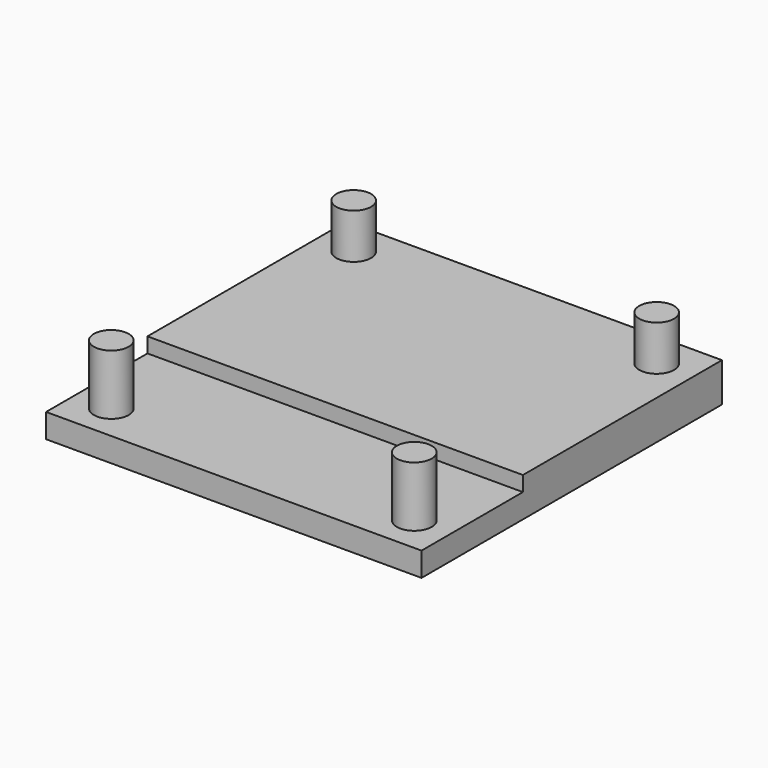
from build123d import *

# Parameters (mm, degrees)
F0_W     = 62.45
F0_H     = 62.4586
F1_DEPTH = 4
F2_R     = 2.9
F4_DEPTH = 10
F3_R     = 2.9
F5_DEPTH = 10
F6_W     = 62.45
F6_H     = 41.379086
F6_R     = 2.9
F7_DEPTH = 2.5


with BuildPart() as f1:
    # F0 (on Top) → F1 (new body)
    with BuildSketch(Plane.XY):
        with Locations((31.225, 31.2293)):
            Rectangle(F0_W, F0_H)
    extrude(amount=-F1_DEPTH)

    # F2 (on face) → F4 (join)
    with BuildSketch(Plane.XY):
        with Locations((6.025, 6.025)):
            Circle(F2_R)
        with Locations((56.425, 6.025)):
            Circle(F2_R)
    extrude(amount=F4_DEPTH)

    # F3 (on face) → F5 (join)
    with BuildSketch(Plane.XY):
        with Locations((56.425, 56.425)):
            Circle(F3_R)
        with Locations((6.025, 56.425)):
            Circle(F3_R)
    extrude(amount=F5_DEPTH)

    # F6 (on face) → F7 (join)
    with BuildSketch(Plane.XY):
        with Locations((31.225, 41.769057)):
            Rectangle(F6_W, F6_H)
        with Locations((6.025, 56.425)):
            Circle(F6_R, mode=Mode.SUBTRACT)
        with Locations((56.425, 56.425)):
            Circle(F6_R, mode=Mode.SUBTRACT)
    extrude(amount=F7_DEPTH)


solid = f1.part
